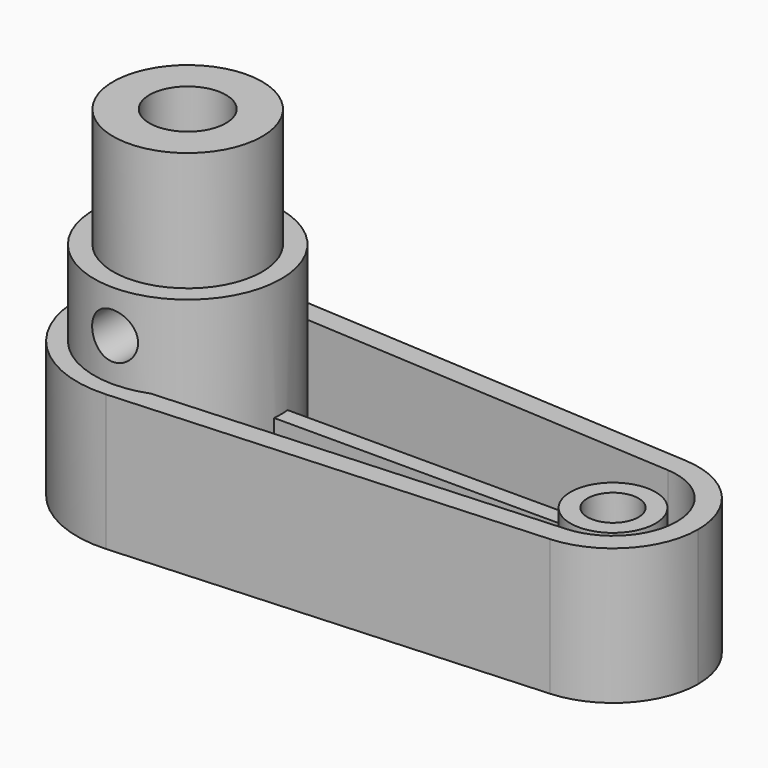
from build123d import *

# Parameters (mm, degrees)
F1_DEPTH        = 16
F2_T            = -2.5
F3_W            = 70
F3_H            = 2
F4_DEPTH        = 12
F6_R            = 11
F7_DEPTH        = 26
F5_R            = 5
F9_DEPTH        = 15
F8_R            = 8.75
F10_DEPTH       = 40
F12_D           = 9
F12_DEPTH       = 35
F12_TIP         = 2.7038727856
F13_R           = 2.7
F14_DEPTH       = 12.5
F16_D           = 3
F16_START       = 1
F16_CBORE_D     = 6
F16_CBORE_DEPTH = 5


with BuildPart() as f1:
    # F0 (on Top) → F1 (new body)
    with BuildSketch(Plane.XY):
        with BuildLine():
            ThreePointArc((0.78, -12.976578902), (9.4641428561, -8.9123509805), (13, 0))
            ThreePointArc((13, 0), (9.4641428561, 8.9123509805), (0.78, 12.976578902))
            ThreePointArc((0.78, 12.976578902), (-13, 0), (0.78, -12.976578902))
        make_face()
        with BuildLine():
            ThreePointArc((0.78, 12.976578902), (9.4641428561, 8.9123509805), (13, 0))
            ThreePointArc((13, 0), (9.4641428561, -8.9123509805), (0.78, -12.976578902))
            Line((0.78, -12.976578902), (50.6, -9.9819837708))
            ThreePointArc((50.6, -9.9819837708), (40, 0), (50.6, 9.9819837708))
            Line((50.6, 9.9819837708), (0.78, 12.976578902))
        make_face()
        with BuildLine():
            ThreePointArc((60, 0), (57.2801098893, 6.8556546004), (50.6, 9.9819837708))
            ThreePointArc((50.6, 9.9819837708), (40, 0), (50.6, -9.9819837708))
            ThreePointArc((50.6, -9.9819837708), (57.2801098893, -6.8556546004), (60, 0))
        make_face()
    extrude(amount=F1_DEPTH)

    # F2
    f2_openings = [f1.faces().sort_by_distance(p)[0] for p in [
        (21.977423, 0, 16),
    ]]
    offset(amount=F2_T, openings=f2_openings)

    # F3 (on Top) → F4 (join)
    with BuildSketch(Plane.XY):
        with Locations((23, 0)):
            Rectangle(F3_W, F3_H)
    extrude(amount=F4_DEPTH)

    # F6 (on Top) → F7 (join)
    with BuildSketch(Plane.XY):
        Circle(F6_R)
    extrude(amount=F7_DEPTH)

    # F5 (on Top) → F9 (join)
    with BuildSketch(Plane.XY):
        with Locations((50, 0)):
            Circle(F5_R)
    extrude(amount=F9_DEPTH)

    # F8 (on Top) → F10 (join)
    with BuildSketch(Plane.XY):
        Circle(F8_R)
    extrude(amount=F10_DEPTH)

    # F12
    with Locations(Plane.XY.offset(40)):
        with Locations((0, 0)):
            Hole(F12_D / 2, depth=F12_DEPTH)
            with Locations((0, 0, -(F12_DEPTH + F12_TIP / 2))):  # 118° drill point
                Cone(0, F12_D / 2, F12_TIP, mode=Mode.SUBTRACT)

    # F13 (on Front) → F14 (cut, symmetric)
    with BuildSketch(Plane.XZ):
        with Locations((0, 21)):
            Circle(F13_R)
    extrude(amount=F14_DEPTH, both=True, mode=Mode.SUBTRACT)

    # F16 (through all)
    # its depths count from where the whole tool has entered the part; down to there all is cleared
    with Locations(Plane.XY.offset(16).offset(-F16_START)):
        with Locations((50, 0)):
            CounterBoreHole(F16_D / 2, F16_CBORE_D / 2, F16_CBORE_DEPTH)


solid = f1.part
